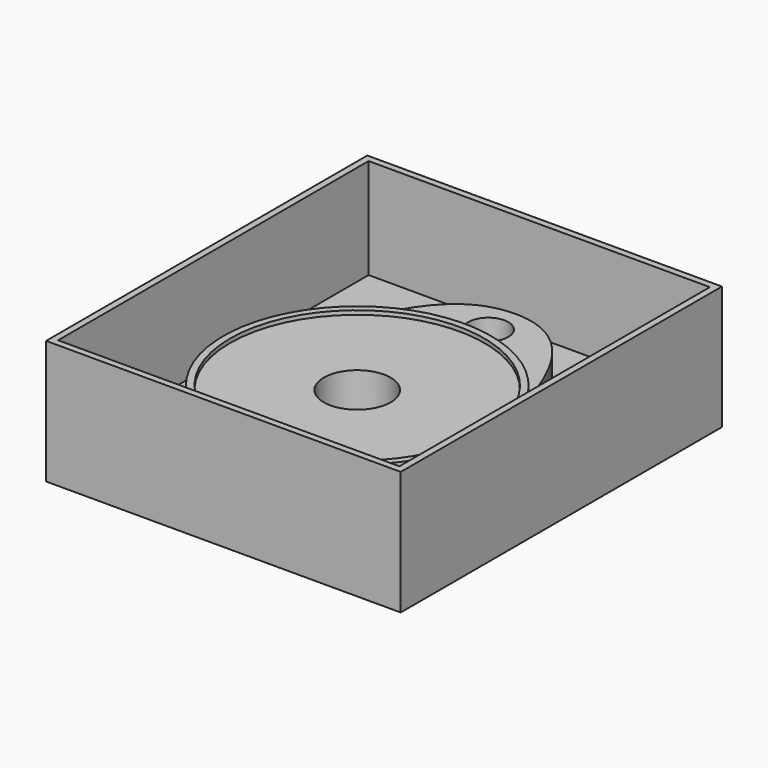
from build123d import *

# Parameters (mm, degrees)
SKETCH_R             = 20
PAD_DEPTH            = 7
SKETCH001_R          = 3
PAD001_DEPTH         = 5
SKETCH002_R          = 20
SKETCH002_R_2        = 19
PAD002_DEPTH         = 7.6
SKETCH003_W          = 53
SKETCH003_H          = 60
PAD003_DEPTH         = 3.5
SKETCH004_W          = 53
SKETCH004_H          = 60
SKETCH004_W_2        = 51
SKETCH004_H_2        = 58
PAD004_DEPTH         = 15
SKETCH006_R          = 3
POCKET_DEPTH         = 3
SKETCH005_R          = 5
POCKET001_DEPTH      = 3.501
POCKET001_DEPTH_BACK = -15.001


with BuildPart() as part:
    # Sketch → Pad (new body)
    with BuildSketch(Plane.XY):
        Circle(SKETCH_R)
    extrude(amount=PAD_DEPTH)

    # Sketch001 → Pad001 (join)
    with BuildSketch(Plane.XY):
        with BuildLine():
            add(Edge.make_bspline(
                [(-14.633789, 13.632763), (-10.829835, 26.268087), (0, 32.822822), (10.829835, 26.268087), (14.633789, 13.632763)],
                knots=[0, 0, 0, 0, 0.5, 1, 1, 1, 1], degree=3))
            Line((14.633789, 13.632763), (-14.633789, 13.632763))
        make_face()
        with Locations((0, 24.48224)):
            Circle(SKETCH001_R, mode=Mode.SUBTRACT)
    extrude(amount=PAD001_DEPTH)

    # Sketch002 → Pad002 (join)
    with BuildSketch(Plane.XY):
        Circle(SKETCH002_R)
        Circle(SKETCH002_R_2, mode=Mode.SUBTRACT)
    extrude(amount=PAD002_DEPTH)

    # Sketch003 → Pad003 (join)
    with BuildSketch(Plane.XY):
        with Locations((0, 5)):
            Rectangle(SKETCH003_W, SKETCH003_H)
    extrude(amount=-PAD003_DEPTH)

    # Sketch004 → Pad004 (join)
    with BuildSketch(Plane.XY):
        with Locations((0, 5)):
            Rectangle(SKETCH004_W, SKETCH004_H)
        with Locations((0, 5)):
            Rectangle(SKETCH004_W_2, SKETCH004_H_2, mode=Mode.SUBTRACT)
    extrude(amount=PAD004_DEPTH)

    # Sketch006 → Pocket (cut)
    with BuildSketch(Plane.XY):
        with Locations((0, 24.48224)):
            Circle(SKETCH006_R)
    extrude(amount=-POCKET_DEPTH, mode=Mode.SUBTRACT)

    # Sketch005 → Pocket001 (cut, two sides)
    with BuildSketch(Plane.XY) as pocket001_sk:
        Circle(SKETCH005_R)
    extrude(amount=-POCKET001_DEPTH, mode=Mode.SUBTRACT)
    extrude(pocket001_sk.sketch, amount=-POCKET001_DEPTH_BACK, mode=Mode.SUBTRACT)


solid = part.part
